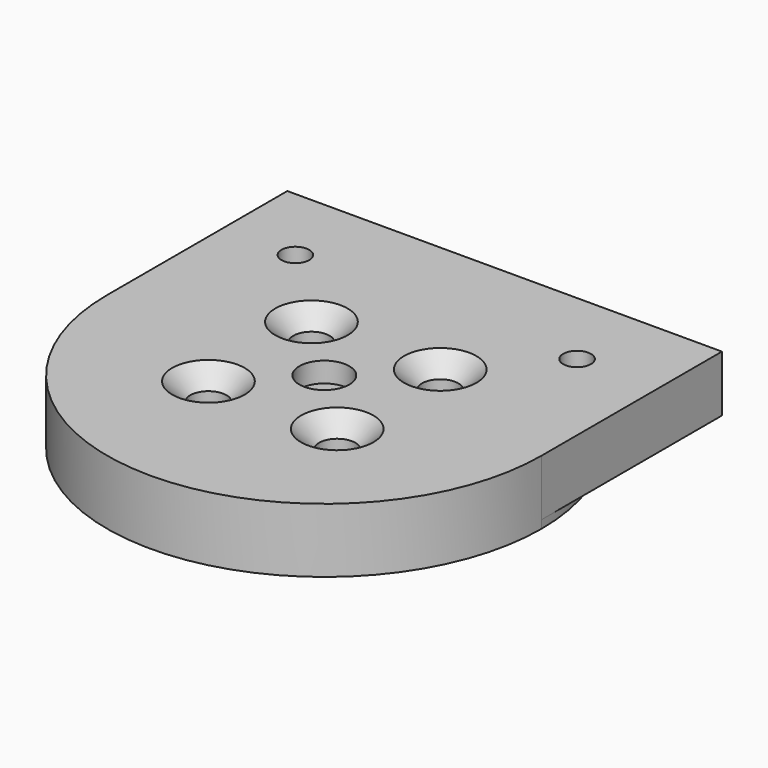
from build123d import *

# Parameters (mm, degrees)
SKETCH083_R         = 27
SKETCH083_R_2       = 3.1
PAD050_DEPTH        = 8
HOLE003_D           = 4.5
HOLE003_CSINK_D     = 9
HOLE003_CSINK_ANGLE = 90
SKETCH080_R         = 4
PAD051_DEPTH        = 1
PAD052_DEPTH        = 7
SKETCH081_R         = 1.7272
POCKET026_DEPTH     = 8.001


with BuildPart() as part:
    # Sketch083 → Pad050 (new body)
    with BuildSketch(Plane.XY):
        Circle(SKETCH083_R)
        Circle(SKETCH083_R_2, mode=Mode.SUBTRACT)
    extrude(amount=PAD050_DEPTH)

    # Hole003 (through all)
    with Locations(Plane.XY.offset(8)):
        with Locations((-8, 8), (8, 8), (8, -8), (-8, -8)):
            CounterSinkHole(HOLE003_D / 2, HOLE003_CSINK_D / 2, counter_sink_angle=HOLE003_CSINK_ANGLE)

    # Sketch080 → Pad051 (join)
    with BuildSketch(Plane.XY.offset(4.5)):
        Circle(SKETCH080_R)
    extrude(amount=PAD051_DEPTH)

    # Sketch085 → Pad052 (join)
    with BuildSketch(Plane.XY.offset(1)):
        with BuildLine():
            Line((-27, 0), (-27, 28))
            Line((-27, 28), (27, 28))
            Line((27, 28), (27, 0))
            Line((27, 0), (25, 0))
            ThreePointArc((25, 0), (0, 25), (-25, 0))
            Line((-25, 0), (-27, 0))
        make_face()
    extrude(amount=PAD052_DEPTH)

    # Sketch081 → Pocket026 (cut, through all)
    with BuildSketch(Plane.XY):
        with Locations((-18, 18)):
            Circle(SKETCH081_R)
        with Locations((17, 18)):
            Circle(SKETCH081_R)
    extrude(amount=POCKET026_DEPTH, mode=Mode.SUBTRACT)


solid = part.part
